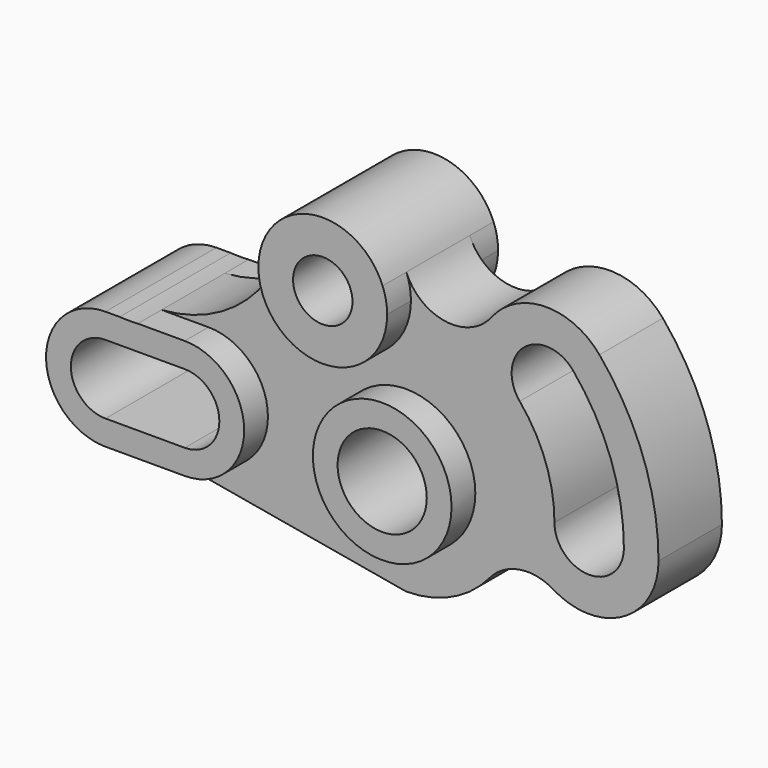
from build123d import *

# Parameters (mm, degrees)
F0_R     = 22.225
F1_DEPTH = 12.7
F0_R_2   = 9.525
F0_R_3   = 14.2875
F2_DEPTH = 22.225


with BuildPart() as f1:
    # F0 (on Front) → F1 (new body, symmetric)
    with BuildSketch(Plane.XZ):
        with BuildLine():
            ThreePointArc((0, -19.05), (-1.654463, -18.97802), (-3.296423, -18.762625))
            Line((-3.296423, -18.762625), (88.6968, -34.925))
            ThreePointArc((88.6968, -34.925), (103.485961, -31.639158), (115.492311, -22.399915))
            ThreePointArc((115.492311, -22.399915), (125.067877, -16.921755), (135.901052, -19.005989))
            ThreePointArc((135.901052, -19.005989), (158.328168, -19.36485), (169.6466, 0))
            ThreePointArc((169.6466, 0), (164.76473, 27.686462), (150.707944, 52.033528))
            ThreePointArc((150.707944, 52.033528), (133.25733, 59.968505), (116.123111, 51.371624))
            ThreePointArc((116.123111, 51.371624), (101.35138, 45.385387), (88.826782, 55.24305))
            ThreePointArc((88.826782, 55.24305), (89.916646, 51.503113), (90.2843, 47.625))
            ThreePointArc((90.2843, 47.625), (69.6468, 26.9875), (49.0093, 47.625))
            ThreePointArc((49.0093, 47.625), (33.876078, 27.660393), (10.350325, 19.05))
            Line((10.350325, 19.05), (25.4, 19.05))
            ThreePointArc((25.4, 19.05), (44.45, 0), (25.4, -19.05))
            Line((25.4, -19.05), (0, -19.05))
        make_face()
        with Locations((88.6968, 0)):
            Circle(F0_R, mode=Mode.SUBTRACT)
        with BuildLine():
            ThreePointArc((158.5468, 0), (147.4216, -11.1252), (136.2964, 0))
            ThreePointArc((136.2964, 0), (133.425793, 16.280022), (125.160209, 30.596433))
            ThreePointArc((125.160209, 30.596433), (126.531466, 46.269971), (142.205004, 44.898715))
            ThreePointArc((142.205004, 44.898715), (154.33433, 23.890107), (158.5468, 0))
        make_face(mode=Mode.SUBTRACT)
    extrude(amount=F1_DEPTH, both=True)

    # F0 (on Front) → F2 (join, symmetric)
    with BuildSketch(Plane.XZ):
        with BuildLine():
            Line((4.5593, 19.05), (0, 19.05))
            ThreePointArc((0, 19.05), (-18.97802, 1.654463), (-3.296423, -18.762625))
            ThreePointArc((-3.296423, -18.762625), (-1.654463, -18.97802), (0, -19.05))
            Line((0, -19.05), (25.4, -19.05))
            ThreePointArc((25.4, -19.05), (44.45, 0), (25.4, 19.05))
            Line((25.4, 19.05), (10.350325, 19.05))
            ThreePointArc((10.350325, 19.05), (7.454813, 18.955592), (4.5593, 19.05))
        make_face()
        with BuildLine():
            ThreePointArc((0, -11.0998), (-11.0998, 0), (0, 11.0998))
            Line((0, 11.0998), (25.4, 11.0998))
            ThreePointArc((25.4, 11.0998), (36.4998, 0), (25.4, -11.0998))
            Line((25.4, -11.0998), (0, -11.0998))
        make_face(mode=Mode.SUBTRACT)
        with BuildLine():
            ThreePointArc((88.826782, 55.24305), (65.768687, 67.894846), (49.0093, 47.625))
            ThreePointArc((49.0093, 47.625), (69.6468, 26.9875), (90.2843, 47.625))
            ThreePointArc((90.2843, 47.625), (89.916646, 51.503113), (88.826782, 55.24305))
        make_face()
        with Locations((69.6468, 47.625)):
            Circle(F0_R_2, mode=Mode.SUBTRACT)
        with Locations((88.6968, 0)):
            Circle(F0_R)
        with Locations((88.6968, 0)):
            Circle(F0_R_3, mode=Mode.SUBTRACT)
    extrude(amount=F2_DEPTH, both=True)


solid = f1.part
